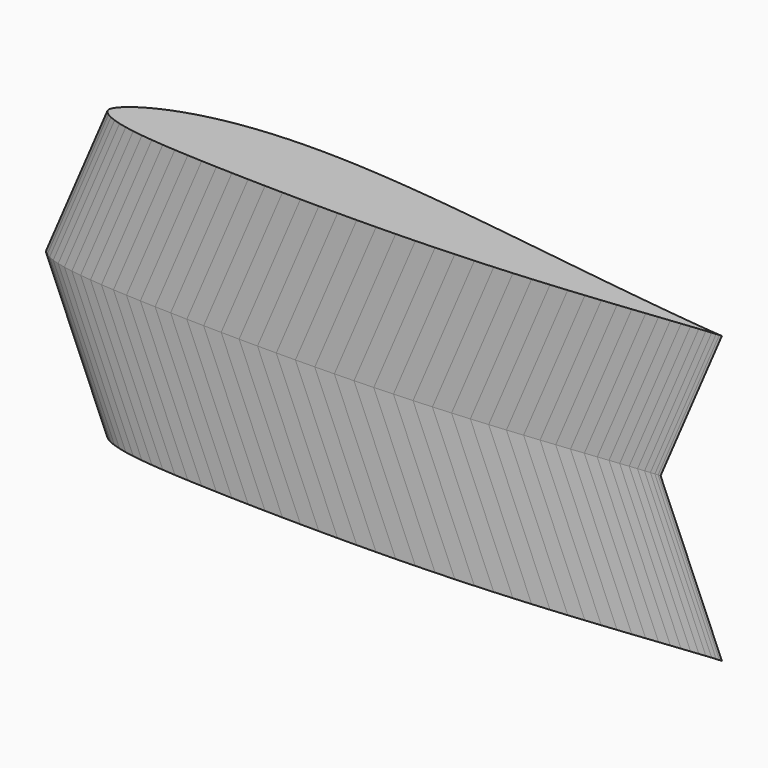
from build123d import *


with BuildPart() as loft001:
    # Sketch003 → Loft001 section 0
    with BuildSketch(Plane(origin=(-5, 0, 0), x_dir=(1, 0, 0), z_dir=(0, 0, 1))):
        Polygon((300, 0), (299.703, 0.018), (298.818, 0.072), (297.342, 0.183), (295.287, 0.363), (292.659, 0.621), (289.467, 0.957), (285.723, 1.368), (281.445, 1.851), (276.648, 2.403), (271.353, 3.027), (265.578, 3.732), (259.344, 4.509), (252.681, 5.364), (245.613, 6.288), (238.167, 7.281), (230.373, 8.337), (222.264, 9.45), (213.867, 10.611), (205.218, 11.811), (196.353, 13.038), (187.305, 14.286), (178.107, 15.534), (168.801, 16.767), (159.42, 17.97), (150, 19.119), (140.583, 20.193), (131.199, 21.174), (121.893, 22.038), (112.698, 22.761), (103.647, 23.322), (94.782, 23.703), (86.133, 23.886), (77.736, 23.856), (69.627, 23.607), (61.833, 23.127), (54.387, 22.419), (47.319, 21.486), (40.656, 20.34), (34.422, 18.996), (28.647, 17.472), (23.352, 15.798), (18.555, 13.998), (14.277, 12.105), (10.533, 10.155), (7.341, 8.184), (4.713, 6.246), (2.658, 4.41), (1.182, 2.745), (0.297, 1.281), (0, 0), (0.297, -1.17), (1.182, -2.301), (2.658, -3.432), (4.713, -4.548), (7.341, -5.607), (10.533, -6.576), (14.277, -7.443), (18.555, -8.208), (23.352, -8.877), (28.647, -9.459), (34.422, -9.969), (40.656, -10.41), (47.319, -10.797), (54.387, -11.133), (61.833, -11.427), (69.627, -11.682), (77.736, -11.901), (86.133, -12.084), (94.782, -12.225), (103.647, -12.327), (112.698, -12.381), (121.893, -12.384), (131.199, -12.327), (140.583, -12.207), (150, -12.018), (159.42, -11.757), (168.801, -11.418), (178.107, -11.007), (187.305, -10.524), (196.353, -9.972), (205.218, -9.357), (213.867, -8.691), (222.264, -7.983), (230.373, -7.248), (238.167, -6.492), (245.613, -5.736), (252.681, -4.989), (259.344, -4.269), (265.578, -3.582), (271.353, -2.94), (276.648, -2.355), (281.445, -1.827), (285.723, -1.359), (289.467, -0.954), (292.659, -0.618), (295.287, -0.363), (297.342, -0.183), (298.818, -0.072), (299.703, -0.018), align=None)
    # Sketch004 → Loft001 section 1
    with BuildSketch(Plane(origin=(25, 0, 70), x_dir=(1, 0, 0), z_dir=(0, 0, 1))):
        Polygon((300, 0), (299.703, 0.018), (298.818, 0.072), (297.342, 0.183), (295.287, 0.363), (292.659, 0.621), (289.467, 0.957), (285.723, 1.368), (281.445, 1.851), (276.648, 2.403), (271.353, 3.027), (265.578, 3.732), (259.344, 4.509), (252.681, 5.364), (245.613, 6.288), (238.167, 7.281), (230.373, 8.337), (222.264, 9.45), (213.867, 10.611), (205.218, 11.811), (196.353, 13.038), (187.305, 14.286), (178.107, 15.534), (168.801, 16.767), (159.42, 17.97), (150, 19.119), (140.583, 20.193), (131.199, 21.174), (121.893, 22.038), (112.698, 22.761), (103.647, 23.322), (94.782, 23.703), (86.133, 23.886), (77.736, 23.856), (69.627, 23.607), (61.833, 23.127), (54.387, 22.419), (47.319, 21.486), (40.656, 20.34), (34.422, 18.996), (28.647, 17.472), (23.352, 15.798), (18.555, 13.998), (14.277, 12.105), (10.533, 10.155), (7.341, 8.184), (4.713, 6.246), (2.658, 4.41), (1.182, 2.745), (0.297, 1.281), (0, 0), (0.297, -1.17), (1.182, -2.301), (2.658, -3.432), (4.713, -4.548), (7.341, -5.607), (10.533, -6.576), (14.277, -7.443), (18.555, -8.208), (23.352, -8.877), (28.647, -9.459), (34.422, -9.969), (40.656, -10.41), (47.319, -10.797), (54.387, -11.133), (61.833, -11.427), (69.627, -11.682), (77.736, -11.901), (86.133, -12.084), (94.782, -12.225), (103.647, -12.327), (112.698, -12.381), (121.893, -12.384), (131.199, -12.327), (140.583, -12.207), (150, -12.018), (159.42, -11.757), (168.801, -11.418), (178.107, -11.007), (187.305, -10.524), (196.353, -9.972), (205.218, -9.357), (213.867, -8.691), (222.264, -7.983), (230.373, -7.248), (238.167, -6.492), (245.613, -5.736), (252.681, -4.989), (259.344, -4.269), (265.578, -3.582), (271.353, -2.94), (276.648, -2.355), (281.445, -1.827), (285.723, -1.359), (289.467, -0.954), (292.659, -0.618), (295.287, -0.363), (297.342, -0.183), (298.818, -0.072), (299.703, -0.018), align=None)
    loft()


with BuildPart() as fusion:
    # Part__Mirroring001: instance of Loft001
    add(loft001.part.mirror(Plane(origin=(0, 0, 0), x_dir=(0, 1, 0), z_dir=(0, 0, 1))))

    # Fusion: union Loft001
    add(loft001.part)


solid = fusion.part
